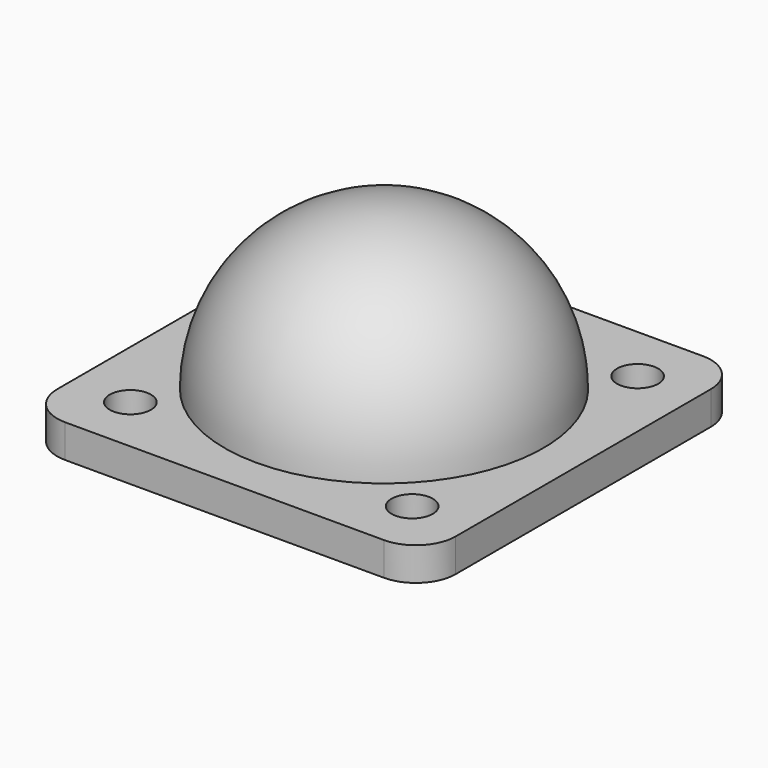
from build123d import *

# Parameters (mm, degrees)
F2_W     = 30
F2_H     = 30
F2_R     = 1.55
F2_R_2   = 12
F3_DEPTH = 2.5
F4_R     = 3


with BuildPart() as f1:
    # F0 (on Right) → F1 (revolve)
    with BuildSketch(Plane.YZ):
        with BuildLine():
            ThreePointArc((0, 12), (-8.4852813742, 8.4852813742), (-12, 0))
            Line((-12, 0), (0, 0))
            Line((0, 0), (0, 12))
        make_face()
    revolve(axis=Axis((0, 0, 6), (0, 0, 1)))

    # F2 (on face) → F3 (join)
    with BuildSketch(Plane(origin=(0, 0, 0), x_dir=(1, 0, 0), z_dir=(0, 0, -1))):
        Rectangle(F2_W, F2_H)
        with Locations((-10.6066017178, -10.6066017178)):
            Circle(F2_R, mode=Mode.SUBTRACT)
        with Locations((10.6066017178, -10.6066017178)):
            Circle(F2_R, mode=Mode.SUBTRACT)
        with Locations((-10.6066017178, 10.6066017178)):
            Circle(F2_R, mode=Mode.SUBTRACT)
        Circle(F2_R_2, mode=Mode.SUBTRACT)
        with Locations((10.6066017178, 10.6066017178)):
            Circle(F2_R, mode=Mode.SUBTRACT)
        Circle(F2_R_2)
    extrude(amount=F3_DEPTH)

    # F4
    f4_edges = [f1.edges().sort_by_distance(p)[0] for p in [
        (15, 15, -1.25),
        (-15, 15, -1.25),
        (15, -15, -1.25),
        (-15, -15, -1.25),
    ]]
    fillet(f4_edges, radius=F4_R)


solid = f1.part
